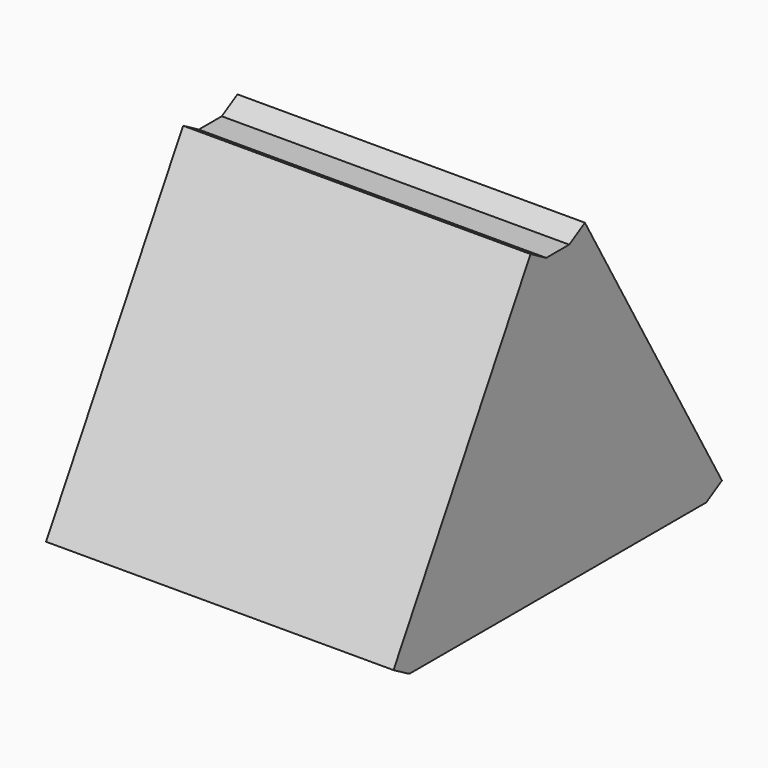
from build123d import *

# Parameters (mm, degrees)
F1_DEPTH = 230
F3_DEPTH = 25
F4_R     = 5


with BuildPart() as f1:
    # F0 (on Right) → F1 (new body)
    with BuildSketch(Plane.YZ):
        Polygon((-2.82824, -129.469417), (2.82824, -129.469417), (122.884619, -129.469417), (135.875, -121.969417), (22.5, 74.401843), (9.509619, 66.901843), (0.683971, 66.901843), (-0.683971, 66.901843), (-9.509619, 66.901843), (-22.5, 74.401843), (-135.875, -121.969417), (-122.884619, -129.469417), align=None)
    extrude(amount=F1_DEPTH)

    # F2 (on face) → F3 (cut)
    with BuildSketch(Plane.XY.offset(66.901843)):
        with BuildLine():
            add(Edge.make_bspline(
                [(74.475423, 192.123339), (93.40541, 192.123339), (83.940416, 223.08819), (74.475423, 254.053041), (65.010429, 223.08819), (55.545435, 192.123339), (74.475423, 192.123339)],
                knots=[0, 0, 0, 2.094395, 2.094395, 4.18879, 4.18879, 6.283185, 6.283185, 6.283185], degree=2, weights=[1, 0.5, 1, 0.5, 1, 0.5, 1]))
        make_face()
        with BuildLine():
            add(Edge.make_bspline(
                [(46.182051, 277.124852), (64.905286, 277.124852), (55.543669, 308.636114), (46.182051, 340.147376), (36.820434, 308.636114), (27.458817, 277.124852), (46.182051, 277.124852)],
                knots=[0, 0, 0, 2.094395, 2.094395, 4.18879, 4.18879, 6.283185, 6.283185, 6.283185], degree=2, weights=[1, 0.5, 1, 0.5, 1, 0.5, 1]))
        make_face()
        with BuildLine():
            add(Edge.make_bspline(
                [(117.583334, 257.453084), (136.293949, 257.453084), (126.938642, 287.325025), (117.583334, 317.196965), (108.228027, 287.325025), (98.87272, 257.453084), (117.583334, 257.453084)],
                knots=[0, 0, 0, 2.094395, 2.094395, 4.18879, 4.18879, 6.283185, 6.283185, 6.283185], degree=2, weights=[1, 0.5, 1, 0.5, 1, 0.5, 1]))
        make_face()
        with BuildLine():
            add(Edge.make_bspline(
                [(184.613109, 237.902731), (202.257195, 237.902731), (193.435152, 268.685415), (184.613109, 299.4681), (175.791065, 268.685415), (166.969022, 237.902731), (184.613109, 237.902731)],
                knots=[0, 0, 0, 2.094395, 2.094395, 4.18879, 4.18879, 6.283185, 6.283185, 6.283185], degree=2, weights=[1, 0.5, 1, 0.5, 1, 0.5, 1]))
        make_face()
        with BuildLine():
            add(Edge.make_bspline(
                [(136.647969, 169.658646), (154.468386, 169.658646), (145.558178, 199.894898), (136.647969, 230.131149), (127.737761, 199.894898), (118.827553, 169.658646), (136.647969, 169.658646)],
                knots=[0, 0, 0, 2.094395, 2.094395, 4.18879, 4.18879, 6.283185, 6.283185, 6.283185], degree=2, weights=[1, 0.5, 1, 0.5, 1, 0.5, 1]))
        make_face()
        with BuildLine():
            add(Edge.make_bspline(
                [(46.182051, -277.124852), (27.458817, -277.124852), (36.820434, -308.636114), (46.182051, -340.147376), (55.543669, -308.636114), (64.905286, -277.124852), (46.182051, -277.124852)],
                knots=[0, 0, 0, 2.094395, 2.094395, 4.18879, 4.18879, 6.283185, 6.283185, 6.283185], degree=2, weights=[1, 0.5, 1, 0.5, 1, 0.5, 1]))
        make_face()
        with BuildLine():
            add(Edge.make_bspline(
                [(74.475423, -192.123339), (55.545435, -192.123339), (65.010429, -223.08819), (74.475423, -254.053041), (83.940416, -223.08819), (93.40541, -192.123339), (74.475423, -192.123339)],
                knots=[0, 0, 0, 2.094395, 2.094395, 4.18879, 4.18879, 6.283185, 6.283185, 6.283185], degree=2, weights=[1, 0.5, 1, 0.5, 1, 0.5, 1]))
        make_face()
        with BuildLine():
            add(Edge.make_bspline(
                [(136.647969, -169.658646), (118.827553, -169.658646), (127.737761, -199.894898), (136.647969, -230.131149), (145.558178, -199.894898), (154.468386, -169.658646), (136.647969, -169.658646)],
                knots=[0, 0, 0, 2.094395, 2.094395, 4.18879, 4.18879, 6.283185, 6.283185, 6.283185], degree=2, weights=[1, 0.5, 1, 0.5, 1, 0.5, 1]))
        make_face()
        with BuildLine():
            add(Edge.make_bspline(
                [(117.583334, -257.453084), (98.87272, -257.453084), (108.228027, -287.325025), (117.583334, -317.196965), (126.938642, -287.325025), (136.293949, -257.453084), (117.583334, -257.453084)],
                knots=[0, 0, 0, 2.094395, 2.094395, 4.18879, 4.18879, 6.283185, 6.283185, 6.283185], degree=2, weights=[1, 0.5, 1, 0.5, 1, 0.5, 1]))
        make_face()
        with BuildLine():
            add(Edge.make_bspline(
                [(184.613109, -237.902731), (166.969022, -237.902731), (175.791065, -268.685415), (184.613109, -299.4681), (193.435152, -268.685415), (202.257195, -237.902731), (184.613109, -237.902731)],
                knots=[0, 0, 0, 2.094395, 2.094395, 4.18879, 4.18879, 6.283185, 6.283185, 6.283185], degree=2, weights=[1, 0.5, 1, 0.5, 1, 0.5, 1]))
        make_face()
    extrude(amount=-F3_DEPTH, mode=Mode.SUBTRACT)

    # F4
    f4_edges = [f1.edges().sort_by_distance(p)[0] for p in [
        (115, -122.884619, -129.469417),
    ]]
    fillet(f4_edges, radius=F4_R)


solid = f1.part
